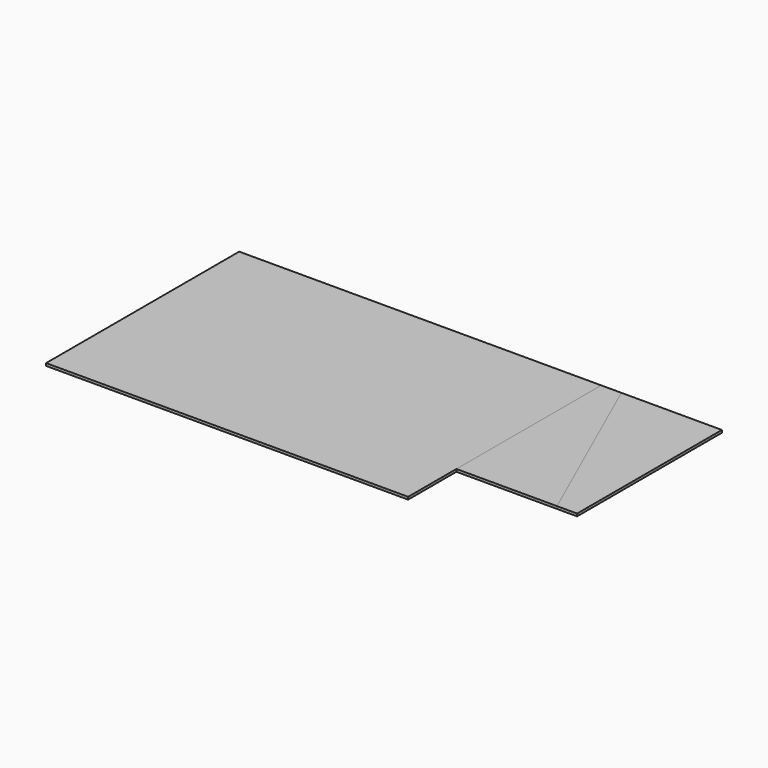
from build123d import *

# Parameters (mm, degrees)
F1_DEPTH = 12.7
F2_DEPTH = 12.7
F3_DEPTH = 12.7


with BuildPart() as f1:
    # F0 (on Top) → F1 (new body)
    with BuildSketch(Plane.XY):
        Polygon((583.763114, 550.606559), (-1245.036886, 550.606559), (-1245.036886, -668.593441), (583.763114, -668.593441), (583.763114, -363.793441), align=None)
    extrude(amount=F1_DEPTH)


with BuildPart() as f2:
    # F0 (on Top) → F2 (new body)
    with BuildSketch(Plane.XY):
        Polygon((1193.363114, 550.606559), (685.363114, 550.606559), (1091.763114, -363.793441), (1193.363114, -363.793441), align=None)
    extrude(amount=F2_DEPTH)


with BuildPart() as f3:
    # F0 (on Top) → F3 (new body)
    with BuildSketch(Plane.XY):
        Polygon((685.363114, 550.606559), (583.763114, 550.606559), (583.763114, -363.793441), (1091.763114, -363.793441), align=None)
    extrude(amount=F3_DEPTH)


solid = Compound([f1.part, f2.part, f3.part])
